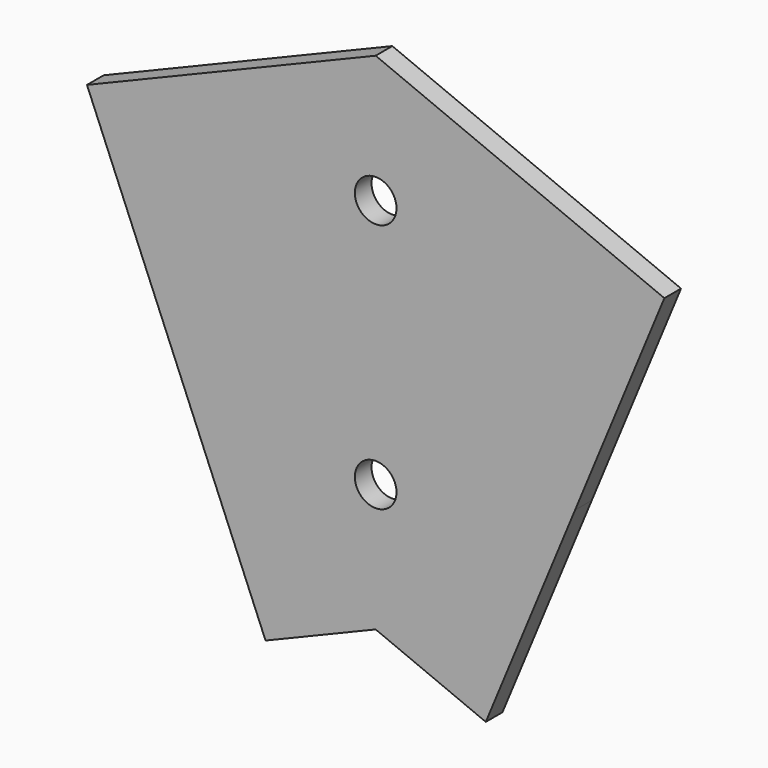
from build123d import *

# Parameters (mm, degrees)
F0_R     = 5
F1_DEPTH = 5


with BuildPart() as f1:
    # F0 (on Front) → F1 (new body)
    with BuildSketch(Plane.XZ):
        Polygon((69.290965, 129.182397), (0, 157.883655), (-69.290965, 129.182397), (-47.860693, 77.445143), (-26.430421, 25.70789), (0, 36.655728), (26.430421, 25.70789), (47.860693, 77.445143), align=None)
        with Locations((0, 67.269691)):
            Circle(F0_R, mode=Mode.SUBTRACT)
        with Locations((0, 127.269691)):
            Circle(F0_R, mode=Mode.SUBTRACT)
    extrude(amount=F1_DEPTH)


solid = f1.part
